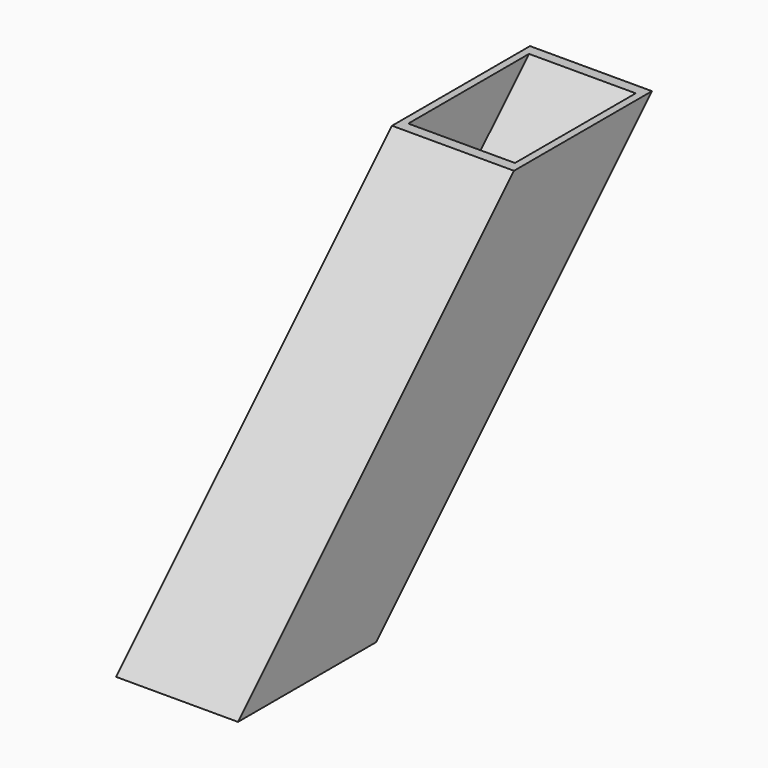
from build123d import *

# Parameters (mm, degrees)
F1_DEPTH = 50.8
F2_T     = -3.175


with BuildPart() as f1:
    # F0 (on Right) → F1 (new body)
    with BuildSketch(Plane.YZ):
        Polygon((80.225808, 45.629273), (8.383759, 45.629273), (-135.300339, -98.054825), (-63.45829, -98.054825), align=None)
    extrude(amount=F1_DEPTH)

    # F2
    f2_openings = [f1.faces().sort_by_distance(p)[0] for p in [
        (25.4, 44.304783, 45.629273),
        (25.4, -99.379315, -98.054825),
    ]]
    offset(amount=F2_T, openings=f2_openings)


solid = f1.part
